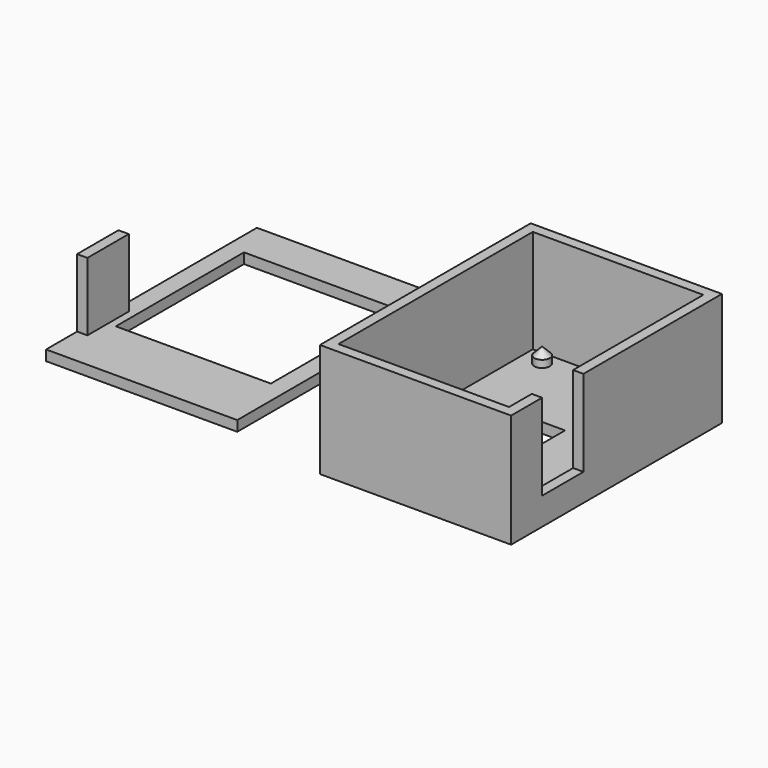
from build123d import *

# Parameters (mm, degrees)
SKETCH001_W     = 37
SKETCH001_H     = 51
PAD_DEPTH       = 20
PAD_DEPTH_BACK  = 2
SKETCH_W        = 33
SKETCH_H        = 47
POCKET_DEPTH    = 20
SKETCH002_W     = 9.1
SKETCH002_H     = 12
POCKET001_DEPTH = 2
SKETCH003_W     = 10
SKETCH003_H     = 16.7
POCKET002_DEPTH = 2
SKETCH007_R     = 1.5
PAD003_DEPTH    = 1.4
SKETCH004_W     = 37
SKETCH004_H     = 51
PAD001_DEPTH    = 2
SKETCH005_W     = 2
SKETCH005_H     = 10
PAD002_DEPTH    = 15.2
SKETCH006_W     = 30
SKETCH006_H     = 31
POCKET003_DEPTH = 2


with BuildPart() as body:
    # Sketch001 → Pad (new body, two sides)
    with BuildSketch(Plane.XY) as pad_sk:
        with Locations((26.5, 33.5)):
            Rectangle(SKETCH001_W, SKETCH001_H)
    extrude(amount=PAD_DEPTH)
    extrude(pad_sk.sketch, amount=-PAD_DEPTH_BACK)

    # Sketch → Pocket (cut)
    with BuildSketch(Plane.XY):
        with Locations((26.5, 33.5)):
            Rectangle(SKETCH_W, SKETCH_H)
    extrude(amount=POCKET_DEPTH, mode=Mode.SUBTRACT)

    # Sketch002 → Pocket001 (cut)
    with BuildSketch(Plane.XY):
        with Locations((25.85, 33.3)):
            Rectangle(SKETCH002_W, SKETCH002_H)
    extrude(amount=-POCKET001_DEPTH, mode=Mode.SUBTRACT)

    # Sketch003 (on Face3 of Pad) → Pocket002 (cut)
    with BuildSketch(Plane.YZ.offset(45)):
        with Locations((20.5, 11.65)):
            Rectangle(SKETCH003_W, SKETCH003_H)
    extrude(amount=-POCKET002_DEPTH, mode=Mode.SUBTRACT)

    # Sketch007 → Pad003 (join)
    with BuildSketch(Plane.XY):
        with Locations((14, 54.25)):
            Circle(SKETCH007_R)
        with Locations((39, 54.25)):
            Circle(SKETCH007_R)
        with Locations((39, 12.75)):
            Circle(SKETCH007_R)
        with Locations((14, 12.75)):
            Circle(SKETCH007_R)
    extrude(amount=PAD003_DEPTH)

    # Sketch008 (on DatumPlane) → Revolution (revolve)
    with BuildSketch(Plane(origin=(14, 54.25, 0.944186), x_dir=(1, 0, 0), z_dir=(0, -1, 0))):
        Polygon((0, 1.955814), (1.5, 0.455814), (0, 0.455814), align=None)
    revolve(axis=Axis((14, 54.25, 0.944186), (0, 0, 1)))

    # Sketch009 (on DatumPlane) → Revolution001 (revolve)
    with BuildSketch(Plane(origin=(14, 54.25, 0.944186), x_dir=(1, 0, 0), z_dir=(0, -1, 0))):
        Polygon((25, 1.955814), (26.5, 0.455814), (25, 0.455814), align=None)
    revolve(axis=Axis((39, 54.25, 0), (0, 0, 1)))

    # Sketch010 (on DatumPlane) → Revolution002 (revolve)
    with BuildSketch(Plane(origin=(14, 12.75, 0.7), x_dir=(1, 0, 0), z_dir=(0, -1, 0))):
        Polygon((0, 2.2), (1.5, 0.7), (0, 0.7), align=None)
    revolve(axis=Axis((14, 12.75, 0.7), (0, 0, 1)))

    # Sketch011 (on DatumPlane) → Revolution003 (revolve)
    with BuildSketch(Plane(origin=(14, 12.75, 0.7), x_dir=(1, 0, 0), z_dir=(0, -1, 0))):
        Polygon((25, 2.2), (26.5, 0.7), (25, 0.7), align=None)
    revolve(axis=Axis((39, 12.75, 0), (0, 0, 1)))


with BuildPart() as body001:
    # Sketch004 → Pad001 (new body)
    with BuildSketch(Plane.XY):
        with Locations((-26.5, 33.5)):
            Rectangle(SKETCH004_W, SKETCH004_H)
    extrude(amount=PAD001_DEPTH)

    # Sketch005 → Pad002 (join)
    with BuildSketch(Plane.XY):
        with Locations((-44, 20.5)):
            Rectangle(SKETCH005_W, SKETCH005_H)
    extrude(amount=PAD002_DEPTH)

    # Sketch006 → Pocket003 (cut)
    with BuildSketch(Plane.XY):
        with Locations((-26.5, 36)):
            Rectangle(SKETCH006_W, SKETCH006_H)
    extrude(amount=POCKET003_DEPTH, mode=Mode.SUBTRACT)


solid = Compound([body.part, body001.part])
